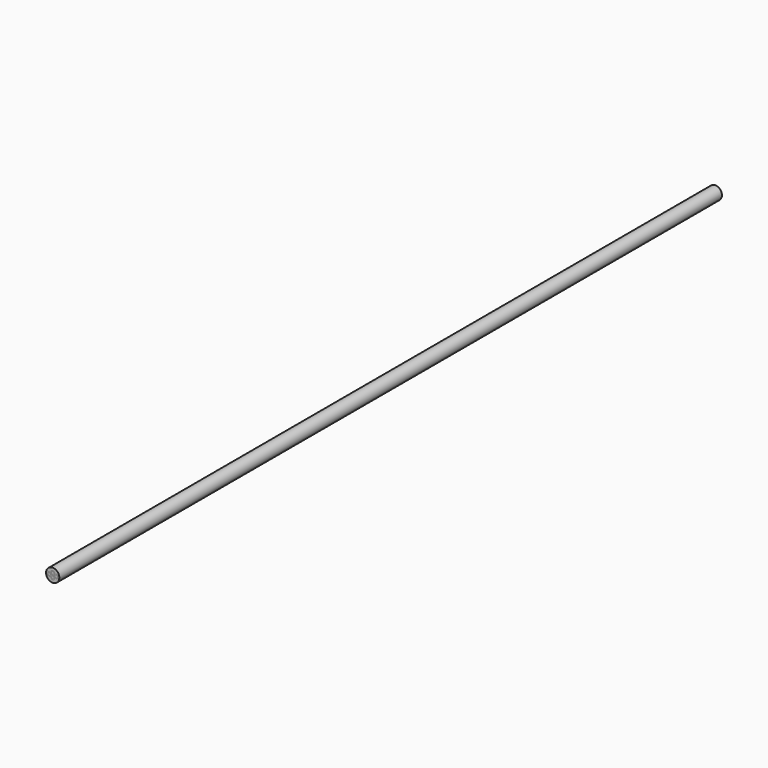
from build123d import *

# Parameters (mm, degrees)
F0_R     = 4
F1_DEPTH = 250
F0_R_2   = 0.75
F2_DEPTH = 250
F3_DEPTH = 250


with BuildPart() as f1:
    # F0 (on Front) → F1 (new body, symmetric)
    with BuildSketch(Plane.XZ):
        Circle(F0_R)
        with BuildLine():
            ThreePointArc((-1.082532, 0.625), (-0.323524, 2.457407), (1.25, 1.25))
            ThreePointArc((1.25, 1.25), (1.207407, 0.926476), (1.082532, 0.625))
            ThreePointArc((1.082532, 0.625), (2.488587, 1.207407), (3.415064, 0))
            ThreePointArc((3.415064, 0), (2.488587, -1.207407), (1.082532, -0.625))
            ThreePointArc((1.082532, -0.625), (1.207407, -0.926476), (1.25, -1.25))
            ThreePointArc((1.25, -1.25), (-0.323524, -2.457407), (-1.082532, -0.625))
            ThreePointArc((-1.082532, -0.625), (-3.415064, 0), (-1.082532, 0.625))
        make_face(mode=Mode.SUBTRACT)
        with BuildLine():
            ThreePointArc((0, 0), (-0.625, 0.167468), (-1.082532, 0.625))
            ThreePointArc((-1.082532, 0.625), (-0.957656, 0.323524), (-0.915064, 0))
            ThreePointArc((-0.915064, 0), (-0.957656, -0.323524), (-1.082532, -0.625))
            ThreePointArc((-1.082532, -0.625), (-0.625, -0.167468), (0, 0))
        make_face()
        with BuildLine():
            ThreePointArc((1.082532, -0.625), (0.915064, 0), (1.082532, 0.625))
            ThreePointArc((1.082532, 0.625), (0.625, 0.167468), (0, 0))
            ThreePointArc((0, 0), (0.625, -0.167468), (1.082532, -0.625))
        make_face()
    extrude(amount=F1_DEPTH, both=True)


with BuildPart() as f2:
    # F0 (on Front) → F2 (new body, symmetric)
    with BuildSketch(Plane.XZ):
        with BuildLine():
            ThreePointArc((-0.915064, 0), (-0.957656, 0.323524), (-1.082532, 0.625))
            ThreePointArc((-1.082532, 0.625), (-3.415064, 0), (-1.082532, -0.625))
            ThreePointArc((-1.082532, -0.625), (-0.957656, -0.323524), (-0.915064, 0))
        make_face()
        with Locations((-2.165064, 0)):
            Circle(F0_R_2, mode=Mode.SUBTRACT)
        with BuildLine():
            ThreePointArc((1.082532, 0.625), (1.207407, 0.926476), (1.25, 1.25))
            ThreePointArc((1.25, 1.25), (-0.323524, 2.457407), (-1.082532, 0.625))
            ThreePointArc((-1.082532, 0.625), (-0.625, 0.167468), (0, 0))
            ThreePointArc((0, 0), (0.625, 0.167468), (1.082532, 0.625))
        make_face()
        with Locations((0, 1.25)):
            Circle(F0_R_2, mode=Mode.SUBTRACT)
        with BuildLine():
            ThreePointArc((3.415064, 0), (2.488587, 1.207407), (1.082532, 0.625))
            ThreePointArc((1.082532, 0.625), (0.915064, 0), (1.082532, -0.625))
            ThreePointArc((1.082532, -0.625), (2.488587, -1.207407), (3.415064, 0))
        make_face()
        with Locations((2.165064, 0)):
            Circle(F0_R_2, mode=Mode.SUBTRACT)
        with BuildLine():
            ThreePointArc((1.082532, -0.625), (0.625, -0.167468), (0, 0))
            ThreePointArc((0, 0), (-0.625, -0.167468), (-1.082532, -0.625))
            ThreePointArc((-1.082532, -0.625), (-0.323524, -2.457407), (1.25, -1.25))
            ThreePointArc((1.25, -1.25), (1.207407, -0.926476), (1.082532, -0.625))
        make_face()
        with Locations((0, -1.25)):
            Circle(F0_R_2, mode=Mode.SUBTRACT)
    extrude(amount=F2_DEPTH, both=True)


with BuildPart() as f3:
    # F0 (on Front) → F3 (new body, symmetric)
    with BuildSketch(Plane.XZ):
        with Locations((-2.165064, 0)):
            Circle(F0_R_2)
        with Locations((0, -1.25)):
            Circle(F0_R_2)
        with Locations((2.165064, 0)):
            Circle(F0_R_2)
        with Locations((0, 1.25)):
            Circle(F0_R_2)
    extrude(amount=F3_DEPTH, both=True)


solid = Compound([f1.part, f2.part, f3.part])
